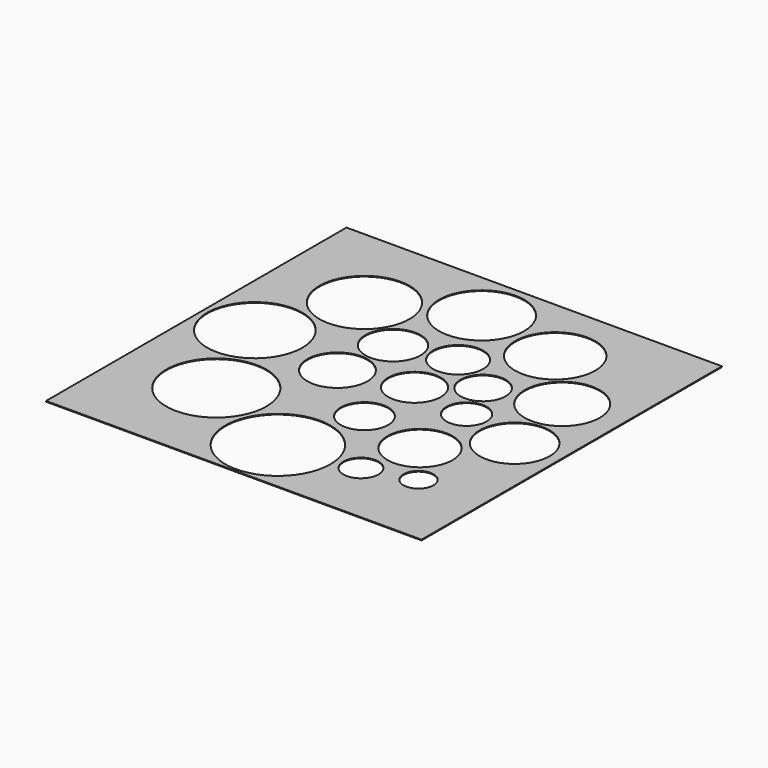
from build123d import *

# Parameters (mm, degrees)
F0_W     = 150
F0_H     = 150
F0_R     = 20
F0_R_2   = 12
F0_R_3   = 21
F0_R_4   = 7
F0_R_5   = 6
F0_R_6   = 9.5
F0_R_7   = 13
F0_R_8   = 14
F0_R_9   = 19
F0_R_10  = 11
F0_R_11  = 18
F0_R_12  = 17
F0_R_13  = 10.5
F0_R_14  = 8
F0_R_15  = 9
F0_R_16  = 10
F0_R_17  = 15
F0_R_18  = 16
F1_DEPTH = 0.3


with BuildPart() as f1:
    # F0 (on Top) → F1 (new body)
    with BuildSketch(Plane.XY):
        Rectangle(F0_W, F0_H)
        with Locations((-39, -35)):
            Circle(F0_R, mode=Mode.SUBTRACT)
        with Locations((-17, -2)):
            Circle(F0_R_2, mode=Mode.SUBTRACT)
        with Locations((0, -53)):
            Circle(F0_R_3, mode=Mode.SUBTRACT)
        with Locations((30, -49)):
            Circle(F0_R_4, mode=Mode.SUBTRACT)
        with Locations((49, -44)):
            Circle(F0_R_5, mode=Mode.SUBTRACT)
        with Locations((9, -21)):
            Circle(F0_R_6, mode=Mode.SUBTRACT)
        with Locations((36, -27)):
            Circle(F0_R_7, mode=Mode.SUBTRACT)
        with Locations((57, -6)):
            Circle(F0_R_8, mode=Mode.SUBTRACT)
        with Locations((-54, 3)):
            Circle(F0_R_9, mode=Mode.SUBTRACT)
        with Locations((-14, 22)):
            Circle(F0_R_10, mode=Mode.SUBTRACT)
        with Locations((-39, 39)):
            Circle(F0_R_11, mode=Mode.SUBTRACT)
        with Locations((-5, 55)):
            Circle(F0_R_12, mode=Mode.SUBTRACT)
        with Locations((9, 4)):
            Circle(F0_R_13, mode=Mode.SUBTRACT)
        with Locations((33, 0)):
            Circle(F0_R_14, mode=Mode.SUBTRACT)
        with Locations((26, 17)):
            Circle(F0_R_15, mode=Mode.SUBTRACT)
        with Locations((8, 27)):
            Circle(F0_R_16, mode=Mode.SUBTRACT)
        with Locations((52, 24)):
            Circle(F0_R_17, mode=Mode.SUBTRACT)
        with Locations((30, 48)):
            Circle(F0_R_18, mode=Mode.SUBTRACT)
    extrude(amount=F1_DEPTH)


solid = f1.part
